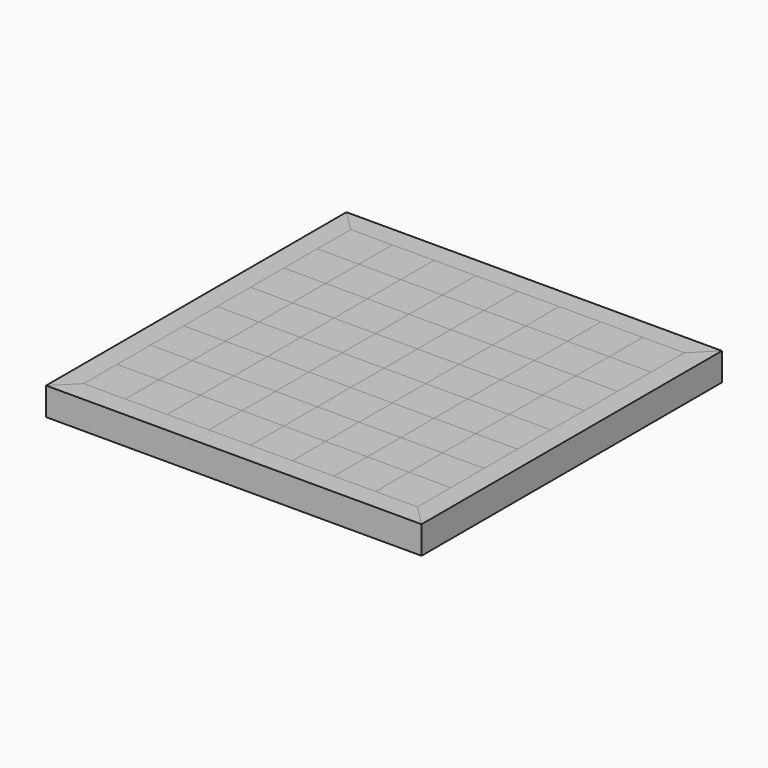
from build123d import *

# Parameters (mm, degrees)
F1_DEPTH = 25.4
F2_DEPTH = 25.4
F3_DEPTH = 25.4
F4_DEPTH = 25.4
F0_W     = 38.1
F0_H     = 38.1
F5_DEPTH = 25.4
F6_DEPTH = 25.4


with BuildPart() as f1:
    # F0 (on Top) → F1 (new body)
    with BuildSketch(Plane.XY):
        Polygon((-152.4, 152.4), (-171.45, 171.45), (-171.45, -171.45), (-152.4, -152.4), (-152.4, -114.3), (-152.4, -76.2), (-152.4, -38.1), (-152.4, 0), (-152.4, 38.1), (-152.4, 76.2), (-152.4, 114.3), align=None)
    extrude(amount=F1_DEPTH)


with BuildPart() as f2:
    # F0 (on Top) → F2 (new body)
    with BuildSketch(Plane.XY):
        Polygon((152.4, 152.4), (171.45, 171.45), (-171.45, 171.45), (-152.4, 152.4), (-114.3, 152.4), (-76.2, 152.4), (-38.1, 152.4), (0, 152.4), (38.1, 152.4), (76.2, 152.4), (114.3, 152.4), align=None)
    extrude(amount=F2_DEPTH)


with BuildPart() as f3:
    # F0 (on Top) → F3 (new body)
    with BuildSketch(Plane.XY):
        Polygon((171.45, -171.45), (171.45, 171.45), (152.4, 152.4), (152.4, 114.3), (152.4, 76.2), (152.4, 38.1), (152.4, 0), (152.4, -38.1), (152.4, -76.2), (152.4, -114.3), (152.4, -152.4), align=None)
    extrude(amount=F3_DEPTH)


with BuildPart() as f4:
    # F0 (on Top) → F4 (new body)
    with BuildSketch(Plane.XY):
        Polygon((-171.45, -171.45), (171.45, -171.45), (152.4, -152.4), (114.3, -152.4), (76.2, -152.4), (38.1, -152.4), (0, -152.4), (-38.1, -152.4), (-76.2, -152.4), (-114.3, -152.4), (-152.4, -152.4), align=None)
    extrude(amount=F4_DEPTH)


with BuildPart() as f5:
    # F0 (on Top) → F5 (new body)
    with BuildSketch(Plane.XY):
        with Locations((-133.35, 133.35)):
            Rectangle(F0_W, F0_H)
    extrude(amount=F5_DEPTH)


with BuildPart() as f5b:
    # F0 (on Top) → F5, piece 2 (new body)
    with BuildSketch(Plane.XY):
        with Locations((-95.25, 95.25)):
            Rectangle(F0_W, F0_H)
    extrude(amount=F5_DEPTH)


with BuildPart() as f5c:
    # F0 (on Top) → F5, piece 3 (new body)
    with BuildSketch(Plane.XY):
        with Locations((-57.15, 133.35)):
            Rectangle(F0_W, F0_H)
    extrude(amount=F5_DEPTH)


with BuildPart() as f5d:
    # F0 (on Top) → F5, piece 4 (new body)
    with BuildSketch(Plane.XY):
        with Locations((-19.05, 95.25)):
            Rectangle(F0_W, F0_H)
    extrude(amount=F5_DEPTH)


with BuildPart() as f5e:
    # F0 (on Top) → F5, piece 5 (new body)
    with BuildSketch(Plane.XY):
        with Locations((19.05, 133.35)):
            Rectangle(F0_W, F0_H)
    extrude(amount=F5_DEPTH)


with BuildPart() as f5f:
    # F0 (on Top) → F5, piece 6 (new body)
    with BuildSketch(Plane.XY):
        with Locations((57.15, 95.25)):
            Rectangle(F0_W, F0_H)
    extrude(amount=F5_DEPTH)


with BuildPart() as f5g:
    # F0 (on Top) → F5, piece 7 (new body)
    with BuildSketch(Plane.XY):
        with Locations((95.25, 133.35)):
            Rectangle(F0_W, F0_H)
    extrude(amount=F5_DEPTH)


with BuildPart() as f5h:
    # F0 (on Top) → F5, piece 8 (new body)
    with BuildSketch(Plane.XY):
        with Locations((133.35, 95.25)):
            Rectangle(F0_W, F0_H)
    extrude(amount=F5_DEPTH)


with BuildPart() as f5i:
    # F0 (on Top) → F5, piece 9 (new body)
    with BuildSketch(Plane.XY):
        with Locations((95.25, 57.15)):
            Rectangle(F0_W, F0_H)
    extrude(amount=F5_DEPTH)


with BuildPart() as f5j:
    # F0 (on Top) → F5, piece 10 (new body)
    with BuildSketch(Plane.XY):
        with Locations((57.15, 19.05)):
            Rectangle(F0_W, F0_H)
    extrude(amount=F5_DEPTH)


with BuildPart() as f5k:
    # F0 (on Top) → F5, piece 11 (new body)
    with BuildSketch(Plane.XY):
        with Locations((133.35, 19.05)):
            Rectangle(F0_W, F0_H)
    extrude(amount=F5_DEPTH)


with BuildPart() as f5l:
    # F0 (on Top) → F5, piece 12 (new body)
    with BuildSketch(Plane.XY):
        with Locations((19.05, 57.15)):
            Rectangle(F0_W, F0_H)
    extrude(amount=F5_DEPTH)


with BuildPart() as f5m:
    # F0 (on Top) → F5, piece 13 (new body)
    with BuildSketch(Plane.XY):
        with Locations((-19.05, 19.05)):
            Rectangle(F0_W, F0_H)
    extrude(amount=F5_DEPTH)


with BuildPart() as f5n:
    # F0 (on Top) → F5, piece 14 (new body)
    with BuildSketch(Plane.XY):
        with Locations((-57.15, 57.15)):
            Rectangle(F0_W, F0_H)
    extrude(amount=F5_DEPTH)


with BuildPart() as f5o:
    # F0 (on Top) → F5, piece 15 (new body)
    with BuildSketch(Plane.XY):
        with Locations((-95.25, 19.05)):
            Rectangle(F0_W, F0_H)
    extrude(amount=F5_DEPTH)


with BuildPart() as f5p:
    # F0 (on Top) → F5, piece 16 (new body)
    with BuildSketch(Plane.XY):
        with Locations((-133.35, 57.15)):
            Rectangle(F0_W, F0_H)
    extrude(amount=F5_DEPTH)


with BuildPart() as f5q:
    # F0 (on Top) → F5, piece 17 (new body)
    with BuildSketch(Plane.XY):
        with Locations((-133.35, -19.05)):
            Rectangle(F0_W, F0_H)
    extrude(amount=F5_DEPTH)


with BuildPart() as f5r:
    # F0 (on Top) → F5, piece 18 (new body)
    with BuildSketch(Plane.XY):
        with Locations((-95.25, -57.15)):
            Rectangle(F0_W, F0_H)
    extrude(amount=F5_DEPTH)


with BuildPart() as f5s:
    # F0 (on Top) → F5, piece 19 (new body)
    with BuildSketch(Plane.XY):
        with Locations((-57.15, -19.05)):
            Rectangle(F0_W, F0_H)
    extrude(amount=F5_DEPTH)


with BuildPart() as f5t:
    # F0 (on Top) → F5, piece 20 (new body)
    with BuildSketch(Plane.XY):
        with Locations((-19.05, -57.15)):
            Rectangle(F0_W, F0_H)
    extrude(amount=F5_DEPTH)


with BuildPart() as f5u:
    # F0 (on Top) → F5, piece 21 (new body)
    with BuildSketch(Plane.XY):
        with Locations((19.05, -19.05)):
            Rectangle(F0_W, F0_H)
    extrude(amount=F5_DEPTH)


with BuildPart() as f5v:
    # F0 (on Top) → F5, piece 22 (new body)
    with BuildSketch(Plane.XY):
        with Locations((57.15, -57.15)):
            Rectangle(F0_W, F0_H)
    extrude(amount=F5_DEPTH)


with BuildPart() as f5w:
    # F0 (on Top) → F5, piece 23 (new body)
    with BuildSketch(Plane.XY):
        with Locations((95.25, -19.05)):
            Rectangle(F0_W, F0_H)
    extrude(amount=F5_DEPTH)


with BuildPart() as f5x:
    # F0 (on Top) → F5, piece 24 (new body)
    with BuildSketch(Plane.XY):
        with Locations((133.35, -57.15)):
            Rectangle(F0_W, F0_H)
    extrude(amount=F5_DEPTH)


with BuildPart() as f5y:
    # F0 (on Top) → F5, piece 25 (new body)
    with BuildSketch(Plane.XY):
        with Locations((95.25, -95.25)):
            Rectangle(F0_W, F0_H)
    extrude(amount=F5_DEPTH)


with BuildPart() as f5z:
    # F0 (on Top) → F5, piece 26 (new body)
    with BuildSketch(Plane.XY):
        with Locations((19.05, -95.25)):
            Rectangle(F0_W, F0_H)
    extrude(amount=F5_DEPTH)


with BuildPart() as f5ba:
    # F0 (on Top) → F5, piece 27 (new body)
    with BuildSketch(Plane.XY):
        with Locations((-57.15, -95.25)):
            Rectangle(F0_W, F0_H)
    extrude(amount=F5_DEPTH)


with BuildPart() as f5bb:
    # F0 (on Top) → F5, piece 28 (new body)
    with BuildSketch(Plane.XY):
        with Locations((-133.35, -95.25)):
            Rectangle(F0_W, F0_H)
    extrude(amount=F5_DEPTH)


with BuildPart() as f5bc:
    # F0 (on Top) → F5, piece 29 (new body)
    with BuildSketch(Plane.XY):
        with Locations((-95.25, -133.35)):
            Rectangle(F0_W, F0_H)
    extrude(amount=F5_DEPTH)


with BuildPart() as f5bd:
    # F0 (on Top) → F5, piece 30 (new body)
    with BuildSketch(Plane.XY):
        with Locations((-19.05, -133.35)):
            Rectangle(F0_W, F0_H)
    extrude(amount=F5_DEPTH)


with BuildPart() as f5be:
    # F0 (on Top) → F5, piece 31 (new body)
    with BuildSketch(Plane.XY):
        with Locations((57.15, -133.35)):
            Rectangle(F0_W, F0_H)
    extrude(amount=F5_DEPTH)


with BuildPart() as f5bf:
    # F0 (on Top) → F5, piece 32 (new body)
    with BuildSketch(Plane.XY):
        with Locations((133.35, -133.35)):
            Rectangle(F0_W, F0_H)
    extrude(amount=F5_DEPTH)


with BuildPart() as f6:
    # F0 (on Top) → F6 (new body)
    with BuildSketch(Plane.XY):
        with Locations((-95.25, 133.35)):
            Rectangle(F0_W, F0_H)
    extrude(amount=F6_DEPTH)


with BuildPart() as f6b:
    # F0 (on Top) → F6, piece 2 (new body)
    with BuildSketch(Plane.XY):
        with Locations((-57.15, 95.25)):
            Rectangle(F0_W, F0_H)
    extrude(amount=F6_DEPTH)


with BuildPart() as f6c:
    # F0 (on Top) → F6, piece 3 (new body)
    with BuildSketch(Plane.XY):
        with Locations((-19.05, 133.35)):
            Rectangle(F0_W, F0_H)
    extrude(amount=F6_DEPTH)


with BuildPart() as f6d:
    # F0 (on Top) → F6, piece 4 (new body)
    with BuildSketch(Plane.XY):
        with Locations((57.15, 133.35)):
            Rectangle(F0_W, F0_H)
    extrude(amount=F6_DEPTH)


with BuildPart() as f6e:
    # F0 (on Top) → F6, piece 5 (new body)
    with BuildSketch(Plane.XY):
        with Locations((19.05, 95.25)):
            Rectangle(F0_W, F0_H)
    extrude(amount=F6_DEPTH)


with BuildPart() as f6f:
    # F0 (on Top) → F6, piece 6 (new body)
    with BuildSketch(Plane.XY):
        with Locations((95.25, 95.25)):
            Rectangle(F0_W, F0_H)
    extrude(amount=F6_DEPTH)


with BuildPart() as f6g:
    # F0 (on Top) → F6, piece 7 (new body)
    with BuildSketch(Plane.XY):
        with Locations((133.35, 133.35)):
            Rectangle(F0_W, F0_H)
    extrude(amount=F6_DEPTH)


with BuildPart() as f6h:
    # F0 (on Top) → F6, piece 8 (new body)
    with BuildSketch(Plane.XY):
        with Locations((-133.35, 95.25)):
            Rectangle(F0_W, F0_H)
    extrude(amount=F6_DEPTH)


with BuildPart() as f6i:
    # F0 (on Top) → F6, piece 9 (new body)
    with BuildSketch(Plane.XY):
        with Locations((-95.25, 57.15)):
            Rectangle(F0_W, F0_H)
    extrude(amount=F6_DEPTH)


with BuildPart() as f6j:
    # F0 (on Top) → F6, piece 10 (new body)
    with BuildSketch(Plane.XY):
        with Locations((-19.05, 57.15)):
            Rectangle(F0_W, F0_H)
    extrude(amount=F6_DEPTH)


with BuildPart() as f6k:
    # F0 (on Top) → F6, piece 11 (new body)
    with BuildSketch(Plane.XY):
        with Locations((57.15, 57.15)):
            Rectangle(F0_W, F0_H)
    extrude(amount=F6_DEPTH)


with BuildPart() as f6l:
    # F0 (on Top) → F6, piece 12 (new body)
    with BuildSketch(Plane.XY):
        with Locations((133.35, 57.15)):
            Rectangle(F0_W, F0_H)
    extrude(amount=F6_DEPTH)


with BuildPart() as f6m:
    # F0 (on Top) → F6, piece 13 (new body)
    with BuildSketch(Plane.XY):
        with Locations((95.25, 19.05)):
            Rectangle(F0_W, F0_H)
    extrude(amount=F6_DEPTH)


with BuildPart() as f6n:
    # F0 (on Top) → F6, piece 14 (new body)
    with BuildSketch(Plane.XY):
        with Locations((133.35, -19.05)):
            Rectangle(F0_W, F0_H)
    extrude(amount=F6_DEPTH)


with BuildPart() as f6o:
    # F0 (on Top) → F6, piece 15 (new body)
    with BuildSketch(Plane.XY):
        with Locations((57.15, -19.05)):
            Rectangle(F0_W, F0_H)
    extrude(amount=F6_DEPTH)


with BuildPart() as f6p:
    # F0 (on Top) → F6, piece 16 (new body)
    with BuildSketch(Plane.XY):
        with Locations((19.05, 19.05)):
            Rectangle(F0_W, F0_H)
    extrude(amount=F6_DEPTH)


with BuildPart() as f6q:
    # F0 (on Top) → F6, piece 17 (new body)
    with BuildSketch(Plane.XY):
        with Locations((-19.05, -19.05)):
            Rectangle(F0_W, F0_H)
    extrude(amount=F6_DEPTH)


with BuildPart() as f6r:
    # F0 (on Top) → F6, piece 18 (new body)
    with BuildSketch(Plane.XY):
        with Locations((-57.15, 19.05)):
            Rectangle(F0_W, F0_H)
    extrude(amount=F6_DEPTH)


with BuildPart() as f6s:
    # F0 (on Top) → F6, piece 19 (new body)
    with BuildSketch(Plane.XY):
        with Locations((-95.25, -19.05)):
            Rectangle(F0_W, F0_H)
    extrude(amount=F6_DEPTH)


with BuildPart() as f6t:
    # F0 (on Top) → F6, piece 20 (new body)
    with BuildSketch(Plane.XY):
        with Locations((-133.35, 19.05)):
            Rectangle(F0_W, F0_H)
    extrude(amount=F6_DEPTH)


with BuildPart() as f6u:
    # F0 (on Top) → F6, piece 21 (new body)
    with BuildSketch(Plane.XY):
        with Locations((-133.35, -57.15)):
            Rectangle(F0_W, F0_H)
    extrude(amount=F6_DEPTH)


with BuildPart() as f6v:
    # F0 (on Top) → F6, piece 22 (new body)
    with BuildSketch(Plane.XY):
        with Locations((-95.25, -95.25)):
            Rectangle(F0_W, F0_H)
    extrude(amount=F6_DEPTH)


with BuildPart() as f6w:
    # F0 (on Top) → F6, piece 23 (new body)
    with BuildSketch(Plane.XY):
        with Locations((-133.35, -133.35)):
            Rectangle(F0_W, F0_H)
    extrude(amount=F6_DEPTH)


with BuildPart() as f6x:
    # F0 (on Top) → F6, piece 24 (new body)
    with BuildSketch(Plane.XY):
        with Locations((-57.15, -133.35)):
            Rectangle(F0_W, F0_H)
    extrude(amount=F6_DEPTH)


with BuildPart() as f6y:
    # F0 (on Top) → F6, piece 25 (new body)
    with BuildSketch(Plane.XY):
        with Locations((-57.15, -57.15)):
            Rectangle(F0_W, F0_H)
    extrude(amount=F6_DEPTH)


with BuildPart() as f6z:
    # F0 (on Top) → F6, piece 26 (new body)
    with BuildSketch(Plane.XY):
        with Locations((-19.05, -95.25)):
            Rectangle(F0_W, F0_H)
    extrude(amount=F6_DEPTH)


with BuildPart() as f6ba:
    # F0 (on Top) → F6, piece 27 (new body)
    with BuildSketch(Plane.XY):
        with Locations((19.05, -57.15)):
            Rectangle(F0_W, F0_H)
    extrude(amount=F6_DEPTH)


with BuildPart() as f6bb:
    # F0 (on Top) → F6, piece 28 (new body)
    with BuildSketch(Plane.XY):
        with Locations((19.05, -133.35)):
            Rectangle(F0_W, F0_H)
    extrude(amount=F6_DEPTH)


with BuildPart() as f6bc:
    # F0 (on Top) → F6, piece 29 (new body)
    with BuildSketch(Plane.XY):
        with Locations((57.15, -95.25)):
            Rectangle(F0_W, F0_H)
    extrude(amount=F6_DEPTH)


with BuildPart() as f6bd:
    # F0 (on Top) → F6, piece 30 (new body)
    with BuildSketch(Plane.XY):
        with Locations((95.25, -133.35)):
            Rectangle(F0_W, F0_H)
    extrude(amount=F6_DEPTH)


with BuildPart() as f6be:
    # F0 (on Top) → F6, piece 31 (new body)
    with BuildSketch(Plane.XY):
        with Locations((133.35, -95.25)):
            Rectangle(F0_W, F0_H)
    extrude(amount=F6_DEPTH)


with BuildPart() as f6bf:
    # F0 (on Top) → F6, piece 32 (new body)
    with BuildSketch(Plane.XY):
        with Locations((95.25, -57.15)):
            Rectangle(F0_W, F0_H)
    extrude(amount=F6_DEPTH)


solid = Compound([f1.part, f2.part, f3.part, f4.part, f5.part, f5b.part, f5c.part, f5d.part, f5e.part, f5f.part, f5g.part, f5h.part, f5i.part, f5j.part, f5k.part, f5l.part, f5m.part, f5n.part, f5o.part, f5p.part, f5q.part, f5r.part, f5s.part, f5t.part, f5u.part, f5v.part, f5w.part, f5x.part, f5y.part, f5z.part, f5ba.part, f5bb.part, f5bc.part, f5bd.part, f5be.part, f5bf.part, f6.part, f6b.part, f6c.part, f6d.part, f6e.part, f6f.part, f6g.part, f6h.part, f6i.part, f6j.part, f6k.part, f6l.part, f6m.part, f6n.part, f6o.part, f6p.part, f6q.part, f6r.part, f6s.part, f6t.part, f6u.part, f6v.part, f6w.part, f6x.part, f6y.part, f6z.part, f6ba.part, f6bb.part, f6bc.part, f6bd.part, f6be.part, f6bf.part])
